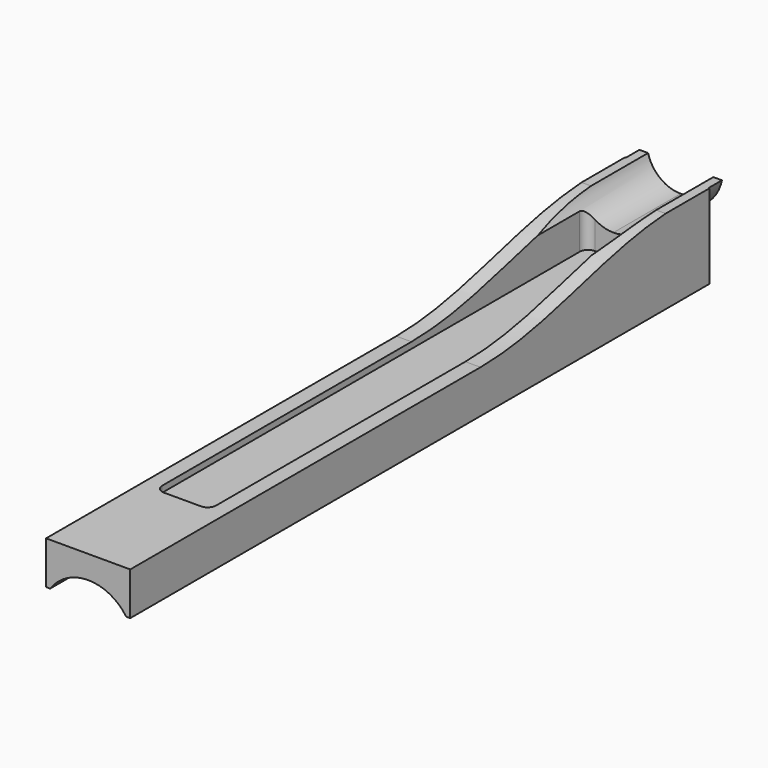
from build123d import *

# Parameters (mm, degrees)
F1_DEPTH = 273.05
F2_DEPTH = 6.35
F4_DEPTH = 25.4
F5_W     = 20.32
F5_H     = 203.2
F6_DEPTH = 21.082
F7_R     = 3.175


with BuildPart() as f1:
    # F0 (on Front) → F1 (new body)
    with BuildSketch(Plane.XZ):
        with BuildLine():
            Line((15.875, -3.175), (15.55426, -3.175))
            ThreePointArc((15.55426, -3.175), (10.040232, -12.296722), (0, -15.875))
            Line((0, -15.875), (0, -26.67))
            ThreePointArc((0, -26.67), (8.358623, -25.326317), (15.875, -21.430662))
            Line((15.875, -21.430662), (15.875, -3.175))
        make_face()
        with BuildLine():
            ThreePointArc((0, -15.875), (-10.040232, -12.296722), (-15.55426, -3.175))
            Line((-15.55426, -3.175), (-15.875, -3.175))
            Line((-15.875, -3.175), (-15.875, -21.430662))
            ThreePointArc((-15.875, -21.430662), (-8.358623, -25.326317), (0, -26.67))
            Line((0, -26.67), (0, -15.875))
        make_face()
        with BuildLine():
            ThreePointArc((15.875, -21.430662), (8.358623, -25.326317), (0, -26.67))
            Line((0, -26.67), (0, -27.432))
            ThreePointArc((0, -27.432), (4.143033, -27.930592), (8.049481, -29.397895))
            ThreePointArc((8.049481, -29.397895), (12.080918, -27.983599), (15.875, -26.019508))
            Line((15.875, -26.019508), (15.875, -21.430662))
        make_face()
        with BuildLine():
            ThreePointArc((-8.049481, -29.397895), (-12.080918, -27.983599), (-15.875, -26.019508))
            Line((-15.875, -26.019508), (-15.875, -34.925))
            Line((-15.875, -34.925), (-14.336944, -34.925))
            ThreePointArc((-14.336944, -34.925), (-11.529321, -31.779102), (-8.049481, -29.397895))
        make_face()
        with BuildLine():
            Line((0, -27.432), (0, -26.67))
            ThreePointArc((0, -26.67), (-8.358623, -25.326317), (-15.875, -21.430662))
            Line((-15.875, -21.430662), (-15.875, -26.019508))
            ThreePointArc((-15.875, -26.019508), (-12.080918, -27.983599), (-8.049481, -29.397895))
            ThreePointArc((-8.049481, -29.397895), (-4.143033, -27.930592), (0, -27.432))
        make_face()
        with BuildLine():
            Line((15.875, -34.925), (15.875, -26.019508))
            ThreePointArc((15.875, -26.019508), (12.080918, -27.983599), (8.049481, -29.397895))
            ThreePointArc((8.049481, -29.397895), (11.529321, -31.779102), (14.336944, -34.925))
            Line((14.336944, -34.925), (15.875, -34.925))
        make_face()
        with BuildLine():
            ThreePointArc((0, -12.7), (-7.77713, -10.040232), (-12.296722, -3.175))
            Line((-12.296722, -3.175), (-15.55426, -3.175))
            ThreePointArc((-15.55426, -3.175), (-10.040232, -12.296722), (0, -15.875))
            Line((0, -15.875), (0, -12.7))
        make_face()
        with BuildLine():
            Line((15.55426, -3.175), (12.296722, -3.175))
            ThreePointArc((12.296722, -3.175), (7.77713, -10.040232), (0, -12.7))
            Line((0, -12.7), (0, -15.875))
            ThreePointArc((0, -15.875), (10.040232, -12.296722), (15.55426, -3.175))
        make_face()
    extrude(amount=F1_DEPTH)

    # F0 (on Front) → F2 (join)
    with BuildSketch(Plane.XZ):
        with BuildLine():
            ThreePointArc((0, -12.7), (-7.77713, -10.040232), (-12.296722, -3.175))
            Line((-12.296722, -3.175), (-15.55426, -3.175))
            ThreePointArc((-15.55426, -3.175), (-10.040232, -12.296722), (0, -15.875))
            Line((0, -15.875), (0, -12.7))
        make_face()
        with BuildLine():
            Line((15.55426, -3.175), (12.296722, -3.175))
            ThreePointArc((12.296722, -3.175), (7.77713, -10.040232), (0, -12.7))
            Line((0, -12.7), (0, -15.875))
            ThreePointArc((0, -15.875), (10.040232, -12.296722), (15.55426, -3.175))
        make_face()
    extrude(amount=-F2_DEPTH)

    # F3 (on Right) → F4 (cut, symmetric)
    with BuildSketch(Plane.YZ):
        with BuildLine():
            Line((-285.688049, -3.085141), (-285.688049, -18.728113))
            Line((-285.688049, -18.728113), (-107.888049, -18.728113))
            add(Edge.make_bspline(
                [(-18.988049, -3.085141), (-51.164284, -4.672805), (-75.452253, -18.588752), (-107.888049, -18.728113)],
                knots=[0, 0, 0, 0, 90.265789, 90.265789, 90.265789, 90.265789], degree=3))
            Line((-18.988049, -3.085141), (-285.688049, -3.085141))
        make_face()
    extrude(amount=F4_DEPTH, both=True, mode=Mode.SUBTRACT)

    # F5 (on Top) → F6 (cut)
    with BuildSketch(Plane.XY):
        with Locations((0, -127)):
            Rectangle(F5_W, F5_H)
    extrude(amount=-F6_DEPTH, mode=Mode.SUBTRACT)

    # F7
    f7_edges = [f1.edges().sort_by_distance(p)[0] for p in [
        (-10.16, -25.4, -14.351),
        (10.16, -25.4, -14.351),
        (-10.16, -228.6, -19.905056),
        (10.16, -228.6, -19.905056),
    ]]
    fillet(f7_edges, radius=F7_R)


solid = f1.part
